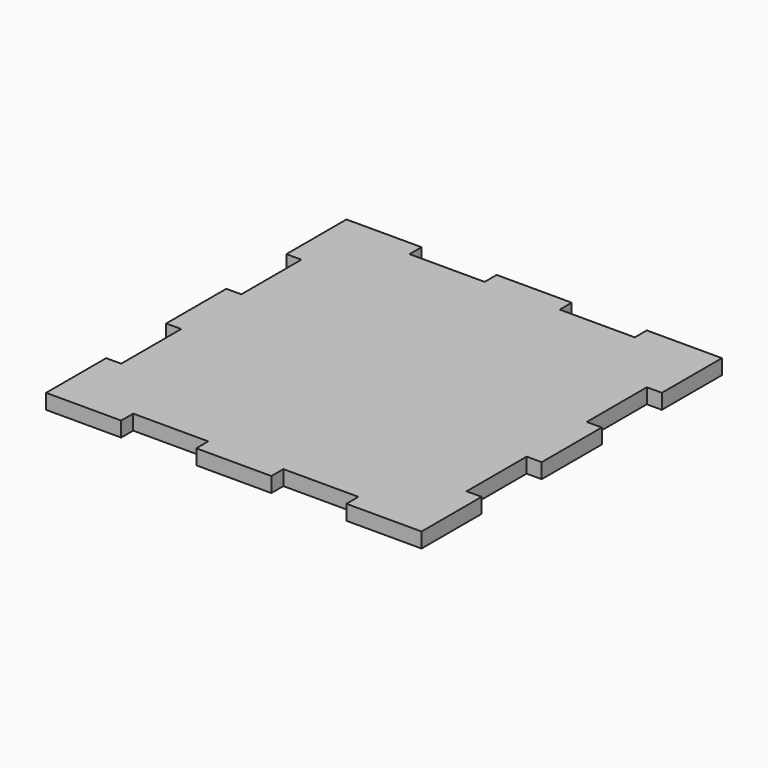
from build123d import *

# Parameters (mm, degrees)
F0_W     = 20
F0_H     = 4
F0_W_2   = 4
F0_H_2   = 20
F1_DEPTH = 4
F2_DEPTH = 4


with BuildPart() as f1:
    # F0 (on Top) → F1 (new body)
    with BuildSketch(Plane.XY):
        Polygon((-50, -30), (-50, -50), (-30, -50), (-30, -46), (-10, -46), (-10, -50), (10, -50), (10, -46), (30, -46), (30, -50), (50, -50), (50, -30), (46, -30), (46, -10), (50, -10), (50, 10), (46, 10), (46, 30), (50, 30), (50, 50), (30, 50), (30, 46), (10, 46), (10, 50), (-10, 50), (-10, 46), (-30, 46), (-30, 50), (-50, 50), (-50, 30), (-46, 30), (-46, 10), (-50, 10), (-50, -10), (-46, -10), (-46, -30), align=None)
        with Locations((-20, -48)):
            Rectangle(F0_W, F0_H)
        with Locations((-48, -20)):
            Rectangle(F0_W_2, F0_H_2)
        with Locations((20, -48)):
            Rectangle(F0_W, F0_H)
        with Locations((-48, 20)):
            Rectangle(F0_W_2, F0_H_2)
        with Locations((48, -20)):
            Rectangle(F0_W_2, F0_H_2)
        with Locations((-20, 48)):
            Rectangle(F0_W, F0_H)
        with Locations((48, 20)):
            Rectangle(F0_W_2, F0_H_2)
        with Locations((20, 48)):
            Rectangle(F0_W, F0_H)
    extrude(amount=F1_DEPTH)

    # F0 (on Top) → F2 (cut)
    with BuildSketch(Plane.XY):
        with Locations((-48, 20)):
            Rectangle(F0_W_2, F0_H_2)
        with Locations((-48, -20)):
            Rectangle(F0_W_2, F0_H_2)
        with Locations((-20, -48)):
            Rectangle(F0_W, F0_H)
        with Locations((20, -48)):
            Rectangle(F0_W, F0_H)
        with Locations((48, -20)):
            Rectangle(F0_W_2, F0_H_2)
        with Locations((48, 20)):
            Rectangle(F0_W_2, F0_H_2)
        with Locations((20, 48)):
            Rectangle(F0_W, F0_H)
        with Locations((-20, 48)):
            Rectangle(F0_W, F0_H)
    extrude(amount=F2_DEPTH, mode=Mode.SUBTRACT)


solid = f1.part
